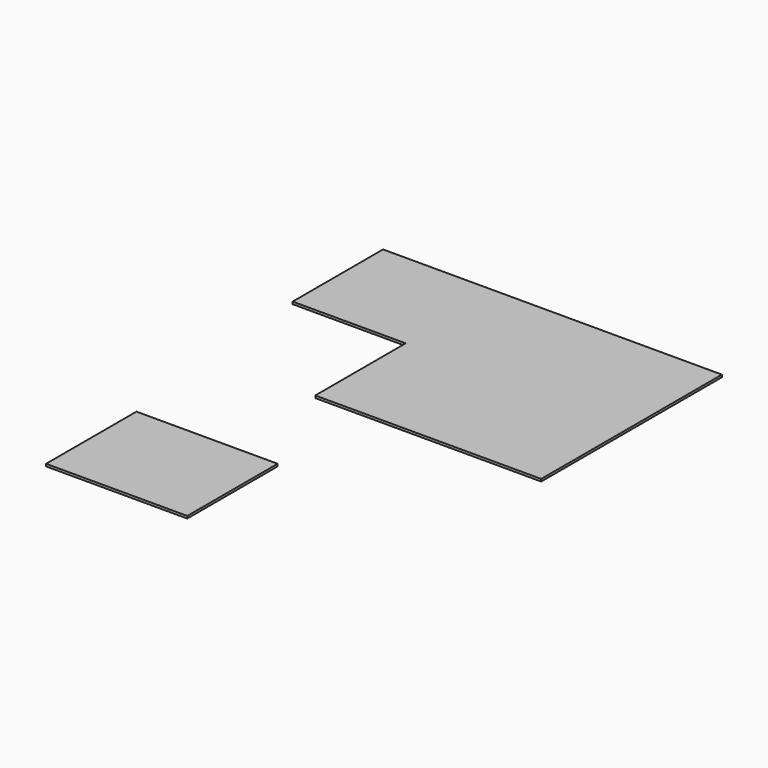
from build123d import *

# Parameters (mm, degrees)
F0_W     = 609.6
F0_H     = 609.6
F1_DEPTH = 6.35
F2_W     = 304.8
F2_H     = 6.35
F3_DEPTH = 304.8
F4_W     = 381
F4_H     = 304.8
F5_DEPTH = 6.35


with BuildPart() as f1:
    # F0 (on Top) → F1 (new body)
    with BuildSketch(Plane.XY):
        Rectangle(F0_W, F0_H)
    extrude(amount=F1_DEPTH)

    # F2 (on face) → F3 (join)
    with BuildSketch(Plane(origin=(-304.8, 0, 0), x_dir=(0, -1, 0), z_dir=(-1, 0, 0))):
        with Locations((-152.4, 3.175)):
            Rectangle(F2_W, F2_H)
    extrude(amount=F3_DEPTH)


with BuildPart() as f5:
    # F4 (on Top) → F5 (new body)
    with BuildSketch(Plane.XY):
        with Locations((-362.522373, -750.093594)):
            Rectangle(F4_W, F4_H)
    extrude(amount=F5_DEPTH)


solid = Compound([f1.part, f5.part])
